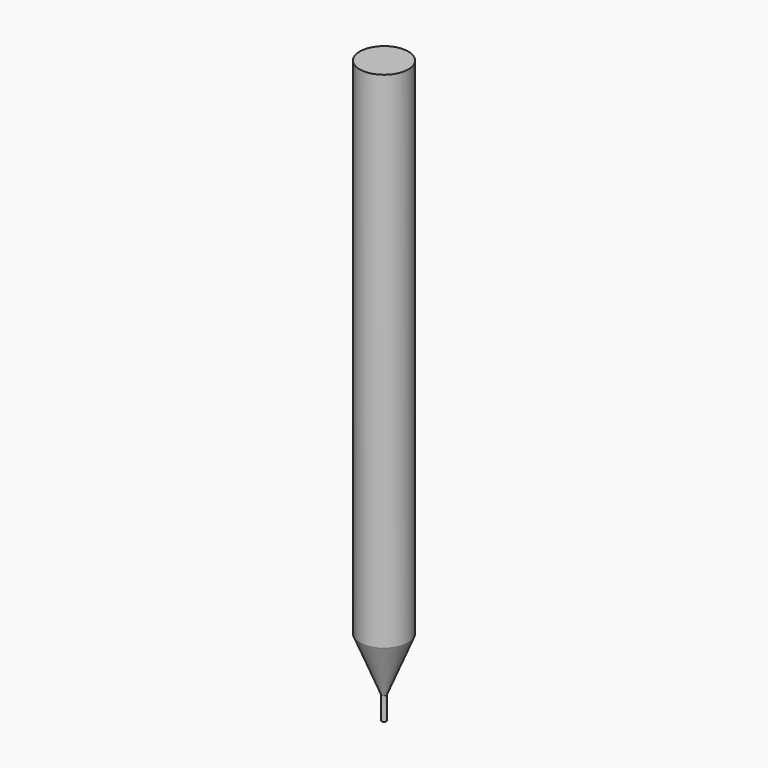
from build123d import *

# Parameters (mm, degrees)
SKETCH_R     = 0.15
PAD_DEPTH    = 1.5
SKETCH001_R  = 0.15
SKETCH002_R  = 1.5875
SKETCH003_R  = 1.5875
PAD001_DEPTH = 33


with BuildPart() as pad:
    # Sketch → Pad (new body)
    with BuildSketch(Plane.XY):
        Circle(SKETCH_R)
    extrude(amount=PAD_DEPTH)


with BuildPart() as pad001:
    # Sketch001 → Loft section 0
    with BuildSketch(Plane.XY.offset(1.5)):
        Circle(SKETCH001_R)
    # Sketch002 → Loft section 1
    with BuildSketch(Plane.XY.offset(5)):
        Circle(SKETCH002_R)
    loft()

    # Fusion: union Pad
    add(pad.part)

    # Sketch003 → Pad001 (new body)
    with BuildSketch(Plane.XY.offset(5)):
        Circle(SKETCH003_R)
    extrude(amount=PAD001_DEPTH)


solid = pad001.part
